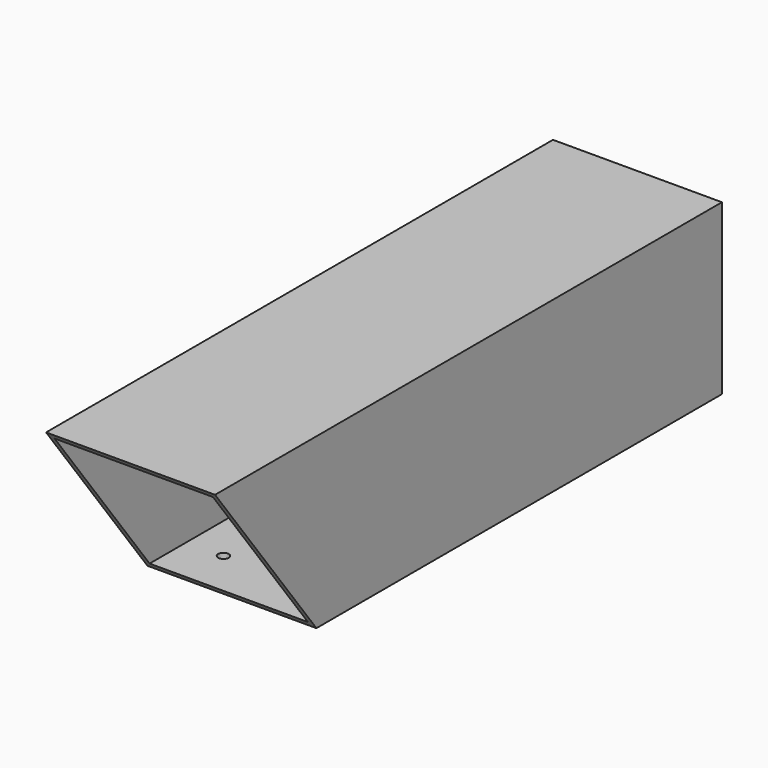
from build123d import *

# Parameters (mm, degrees)
F1_DEPTH = 101.6
F2_T     = -3.175
F3_R     = 3.175
F4_DEPTH = 25.4


with BuildPart() as f1:
    # F0 (on Right) → F1 (new body)
    with BuildSketch(Plane.YZ):
        Polygon((185.428325, -23.156608), (-195.571675, -23.156608), (-119.371675, -124.756608), (185.428325, -124.756608), align=None)
    extrude(amount=F1_DEPTH)

    # F2
    f2_openings = [f1.faces().sort_by_distance(p)[0] for p in [
        (50.8, -157.471675, -73.956608),
    ]]
    offset(amount=F2_T, openings=f2_openings)

    # F3 (on face) → F4 (cut)
    with BuildSketch(Plane(origin=(0, 0, -124.756608), x_dir=(1, 0, 0), z_dir=(0, 0, -1))):
        with Locations((25.4, 93.971675)):
            Circle(F3_R)
        with Locations((76.2, 93.971675)):
            Circle(F3_R)
        with Locations((25.4, -160.028325)):
            Circle(F3_R)
        with Locations((76.2, -160.028325)):
            Circle(F3_R)
    extrude(amount=-F4_DEPTH, mode=Mode.SUBTRACT)


solid = f1.part
